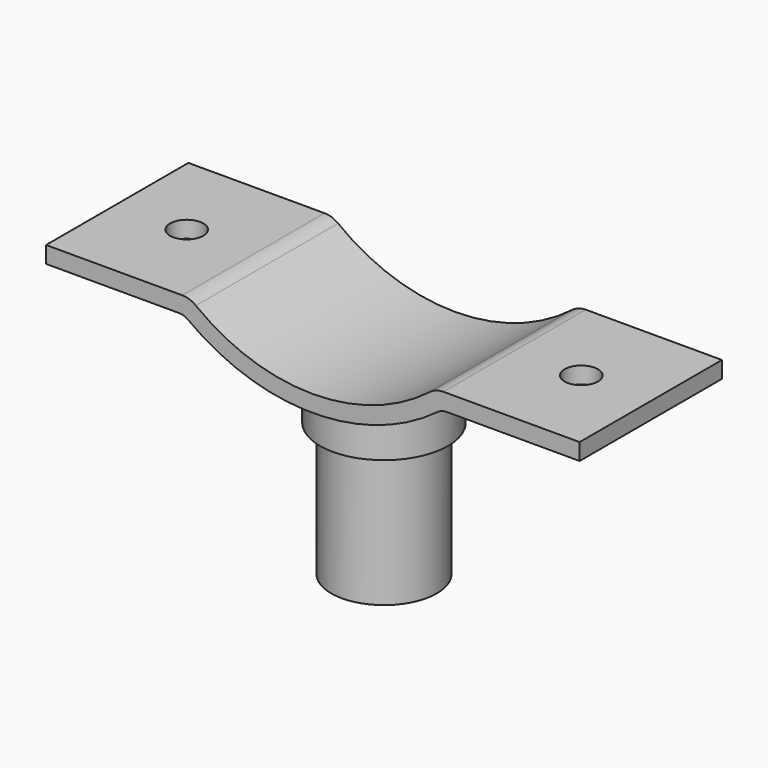
from build123d import *

# Parameters (mm, degrees)
F0_R     = 30.1625
F0_R_2   = 25.4
F1_DEPTH = 25.4
F2_DEPTH = 101.6
F0_R_3   = 36.5125
F0_R_4   = 31.75
F3_DEPTH = 25.4
F5_DEPTH = 50.8
F6_R     = 12.7
F7_R     = 9.525
F8_R     = 9.525
F9_DEPTH = 34.919747


with BuildPart() as f1:
    # F0 (on Top) → F1 (new body)
    with BuildSketch(Plane.XY):
        Circle(F0_R)
        Circle(F0_R_2, mode=Mode.SUBTRACT)
    extrude(amount=-F1_DEPTH)

    # F0 (on Top) → F2 (join)
    with BuildSketch(Plane.XY):
        Circle(F0_R)
        Circle(F0_R_2, mode=Mode.SUBTRACT)
    extrude(amount=-F2_DEPTH)


with BuildPart() as f3:
    # F0 (on Top) → F3 (new body)
    with BuildSketch(Plane.XY):
        Circle(F0_R_3)
        Circle(F0_R_4, mode=Mode.SUBTRACT)
    extrude(amount=-F3_DEPTH)


with BuildPart() as f5:
    # F4 (on Front) → F5 (new body, symmetric)
    with BuildSketch(Plane.XZ):
        with BuildLine():
            ThreePointArc((70.138042, 34.918747), (0, 9.518747), (-70.138042, 34.918747))
            Line((-70.138042, 34.918747), (-152.4, 34.918747))
            Line((-152.4, 34.918747), (-152.4, 25.393747))
            Line((-152.4, 25.393747), (-73.496435, 25.393747))
            ThreePointArc((-73.496435, 25.393747), (0, 0), (73.496435, 25.393747))
            Line((73.496435, 25.393747), (152.4, 25.393747))
            Line((152.4, 25.393747), (152.4, 34.918747))
            Line((152.4, 34.918747), (70.138042, 34.918747))
        make_face()
    extrude(amount=F5_DEPTH, both=True)

    # F6
    f6_edges = [f5.edges().sort_by_distance(p)[0] for p in [
        (70.138042, 0, 34.918747),
        (-70.138042, 0, 34.918747),
    ]]
    fillet(f6_edges, radius=F6_R)

    # F7
    f7_edges = [f5.edges().sort_by_distance(p)[0] for p in [
        (-73.496435, 0, 25.393747),
        (73.496435, 0, 25.393747),
    ]]
    fillet(f7_edges, radius=F7_R)

    # F8 (on Top) → F9 (cut, through all)
    with BuildSketch(Plane.XY):
        with Locations((-112.7125, 0)):
            Circle(F8_R)
        with Locations((112.7125, 0)):
            Circle(F8_R)
    extrude(amount=F9_DEPTH, mode=Mode.SUBTRACT)


solid = Compound([f1.part, f3.part, f5.part])
